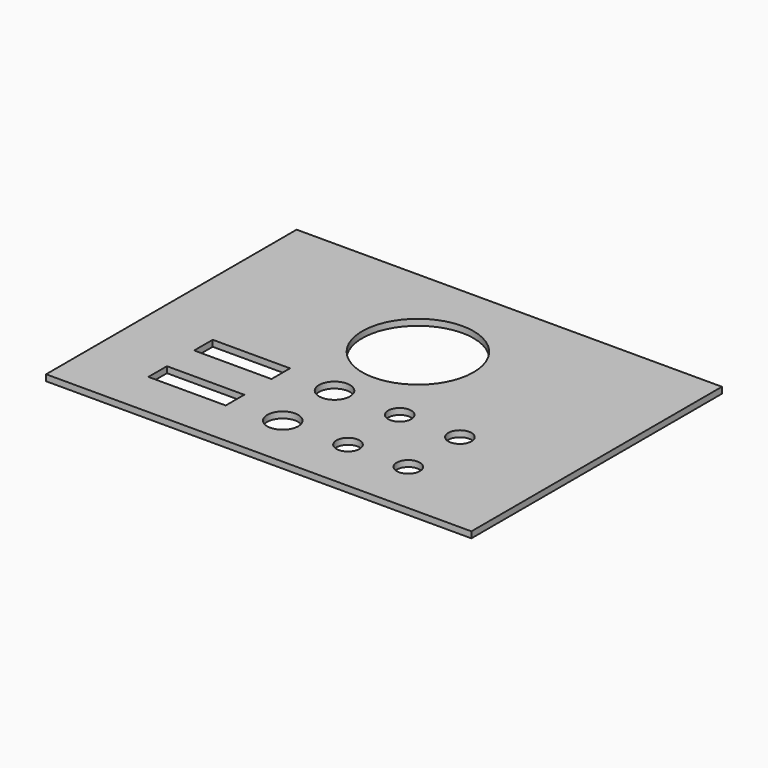
from build123d import *

# Parameters (mm, degrees)
F0_W     = 31.75
F0_H     = 9.525
F0_R     = 6.35
F0_R_2   = 4.7625
F0_W_2   = 174.625
F0_H_2   = 35.56
F1_DEPTH = 2.54


with BuildPart() as f1:
    # F0 (on Top) → F1 (new body)
    with BuildSketch(Plane.XY):
        with BuildLine():
            Line((91.304687, 41.91), (-83.320313, 41.91))
            Line((-83.320313, 41.91), (-83.320313, 0))
            Line((-83.320313, 0), (-22.86, 0))
            ThreePointArc((-22.86, 0), (0, 22.86), (22.86, 0))
            Line((22.86, 0), (91.304687, 0))
            Line((91.304687, 0), (91.304687, 41.91))
        make_face()
        with BuildLine():
            Line((-22.86, 0), (-83.320313, 0))
            Line((-83.320313, 0), (-83.320313, -51.1175))
            Line((-83.320313, -51.1175), (91.304687, -51.1175))
            Line((91.304687, -51.1175), (91.304687, 0))
            Line((91.304687, 0), (22.86, 0))
            ThreePointArc((22.86, 0), (0, -22.86), (-22.86, 0))
        make_face()
        with Locations((-40.682319, -39.37)):
            Rectangle(F0_W, F0_H, mode=Mode.SUBTRACT)
        with Locations((-3.973405, -37.828869)):
            Circle(F0_R, mode=Mode.SUBTRACT)
        with Locations((22.815671, -37.852492)):
            Circle(F0_R_2, mode=Mode.SUBTRACT)
        with Locations((47.544446, -37.874298)):
            Circle(F0_R_2, mode=Mode.SUBTRACT)
        with Locations((3.992187, -68.8975)):
            Rectangle(F0_W_2, F0_H_2)
        with Locations((-40.682319, -62.865)):
            Rectangle(F0_W, F0_H, mode=Mode.SUBTRACT)
        with Locations((-3.973405, -64.406131)):
            Circle(F0_R, mode=Mode.SUBTRACT)
        with Locations((22.815671, -64.382508)):
            Circle(F0_R_2, mode=Mode.SUBTRACT)
        with Locations((47.544446, -64.360702)):
            Circle(F0_R_2, mode=Mode.SUBTRACT)
    extrude(amount=F1_DEPTH)


solid = f1.part
